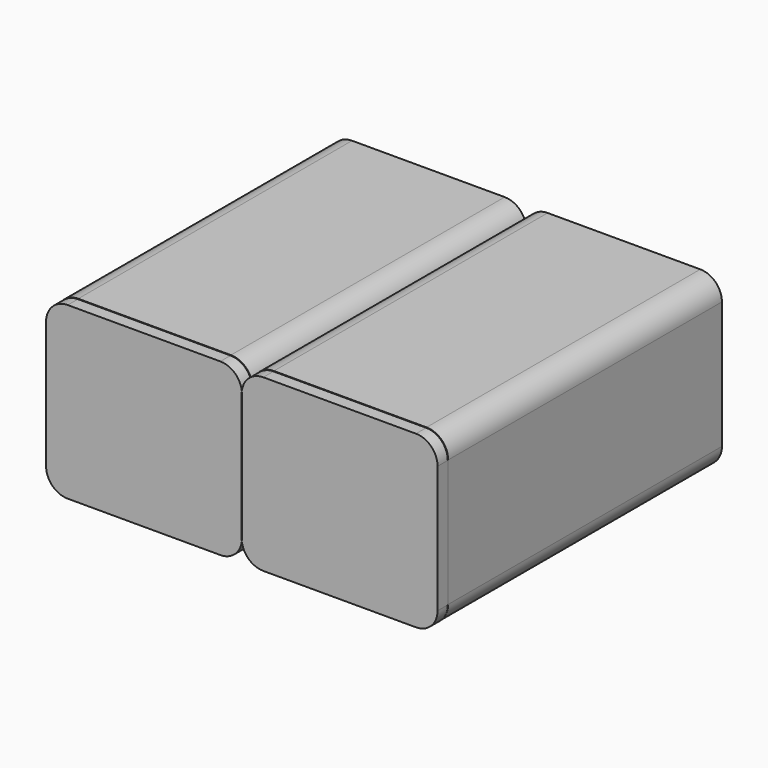
from build123d import *

# Parameters (mm, degrees)
F1_DEPTH = 67.25
F4_DEPTH = 5


with BuildPart() as f1:
    # F0 (on Front) → F1 (new body, symmetric)
    with BuildSketch(Plane.XZ):
        with BuildLine():
            Line((30, 33.5), (-30, 33.5))
            ThreePointArc((-30, 33.5), (-36.010408, 31.010408), (-38.5, 25))
            Line((-38.5, 25), (-38.5, -25))
            ThreePointArc((-38.5, -25), (-36.010408, -31.010408), (-30, -33.5))
            Line((-30, -33.5), (30, -33.5))
            ThreePointArc((30, -33.5), (35.641068, -31.358329), (38.439475, -26.012552))
            ThreePointArc((38.439475, -26.012552), (38.394095, -25.50718), (38.37895, -25))
            Line((38.37895, -25), (38.37895, 25))
            ThreePointArc((38.37895, 25), (38.394095, 25.50718), (38.439475, 26.012552))
            ThreePointArc((38.439475, 26.012552), (35.641068, 31.358329), (30, 33.5))
        make_face()
        with BuildLine():
            ThreePointArc((-35, 25), (-33.535534, 28.535534), (-30, 30))
            Line((-30, 30), (30, 30))
            ThreePointArc((30, 30), (33.535534, 28.535534), (35, 25))
            Line((35, 25), (35, -25))
            ThreePointArc((35, -25), (33.535534, -28.535534), (30, -30))
            Line((30, -30), (-30, -30))
            ThreePointArc((-30, -30), (-33.535534, -28.535534), (-35, -25))
            Line((-35, -25), (-35, 25))
        make_face(mode=Mode.SUBTRACT)
        with BuildLine():
            ThreePointArc((46.87895, 33.5), (41.237882, 31.358329), (38.439475, 26.012552))
            ThreePointArc((38.439475, 26.012552), (38.484855, 25.50718), (38.5, 25))
            Line((38.5, 25), (38.5, -25))
            ThreePointArc((38.5, -25), (38.484855, -25.50718), (38.439475, -26.012552))
            ThreePointArc((38.439475, -26.012552), (41.237882, -31.358329), (46.87895, -33.5))
            Line((46.87895, -33.5), (106.87895, -33.5))
            ThreePointArc((106.87895, -33.5), (112.889358, -31.010408), (115.37895, -25))
            Line((115.37895, -25), (115.37895, 25))
            ThreePointArc((115.37895, 25), (112.889358, 31.010408), (106.87895, 33.5))
            Line((106.87895, 33.5), (46.87895, 33.5))
        make_face()
        with BuildLine():
            ThreePointArc((41.87895, 25), (43.343416, 28.535534), (46.87895, 30))
            Line((46.87895, 30), (106.87895, 30))
            ThreePointArc((106.87895, 30), (110.414484, 28.535534), (111.87895, 25))
            Line((111.87895, 25), (111.87895, -25))
            ThreePointArc((111.87895, -25), (110.414484, -28.535534), (106.87895, -30))
            Line((106.87895, -30), (46.87895, -30))
            ThreePointArc((46.87895, -30), (43.343416, -28.535534), (41.87895, -25))
            Line((41.87895, -25), (41.87895, 25))
        make_face(mode=Mode.SUBTRACT)
    extrude(amount=F1_DEPTH, both=True)


with BuildPart() as f4:
    # F3 (on offset) → F4 (new body)
    with BuildSketch(Plane.XZ.offset(67.3)):
        with BuildLine():
            Line((29.888404, 33.325159), (-30.111596, 33.325159))
            ThreePointArc((-30.111596, 33.325159), (-36.122003, 30.835566), (-38.611596, 24.825159))
            Line((-38.611596, 24.825159), (-38.611596, -25.174841))
            ThreePointArc((-38.611596, -25.174841), (-36.122003, -31.185249), (-30.111596, -33.674841))
            Line((-30.111596, -33.674841), (29.888404, -33.674841))
            ThreePointArc((29.888404, -33.674841), (35.529473, -31.53317), (38.327879, -26.187393))
            ThreePointArc((38.327879, -26.187393), (38.282499, -25.682021), (38.267354, -25.174841))
            Line((38.267354, -25.174841), (38.267354, 24.825159))
            ThreePointArc((38.267354, 24.825159), (38.282499, 25.332338), (38.327879, 25.837711))
            ThreePointArc((38.327879, 25.837711), (35.529473, 31.183488), (29.888404, 33.325159))
        make_face()
        with BuildLine():
            ThreePointArc((46.767354, 33.325159), (41.126286, 31.183488), (38.327879, 25.837711))
            ThreePointArc((38.327879, 25.837711), (38.37326, 25.332338), (38.388404, 24.825159))
            Line((38.388404, 24.825159), (38.388404, -25.174841))
            ThreePointArc((38.388404, -25.174841), (38.37326, -25.682021), (38.327879, -26.187393))
            ThreePointArc((38.327879, -26.187393), (41.126286, -31.53317), (46.767354, -33.674841))
            Line((46.767354, -33.674841), (106.767354, -33.674841))
            ThreePointArc((106.767354, -33.674841), (112.777762, -31.185249), (115.267354, -25.174841))
            Line((115.267354, -25.174841), (115.267354, 24.825159))
            ThreePointArc((115.267354, 24.825159), (112.777762, 30.835566), (106.767354, 33.325159))
            Line((106.767354, 33.325159), (46.767354, 33.325159))
        make_face()
    extrude(amount=F4_DEPTH)


solid = Compound([f1.part, f4.part])
